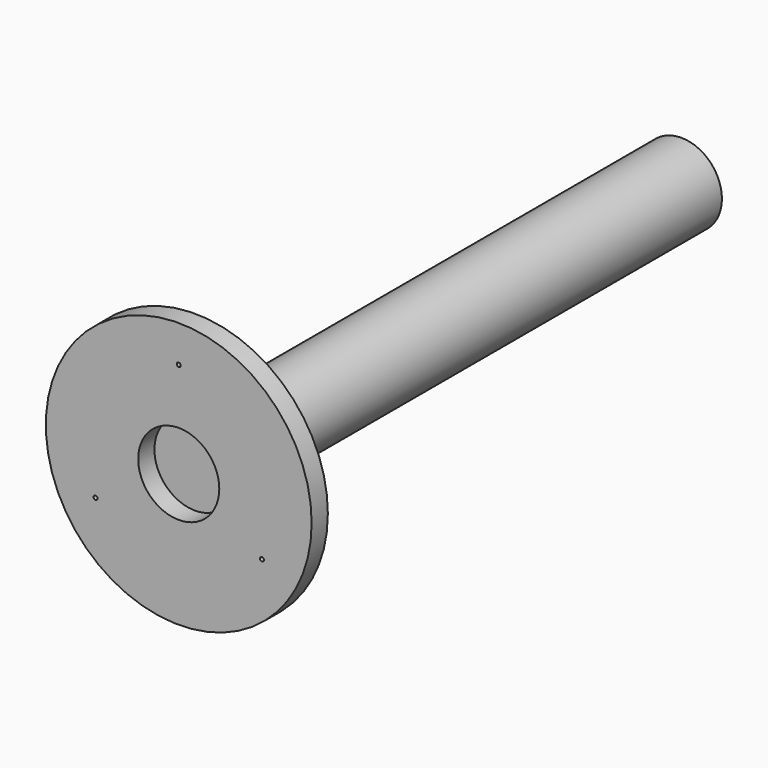
from build123d import *

# Parameters (mm, degrees)
F0_R     = 50.8
F1_DEPTH = 762
F2_R     = 166.56616515
F2_R_2   = 50.8
F3_DEPTH = 25.4
F5_D     = 5


with BuildPart() as f1:
    # F0 (on Front) → F1 (new body)
    with BuildSketch(Plane.XZ):
        Circle(F0_R)
    extrude(amount=F1_DEPTH)


with BuildPart() as f3:
    # F2 (on face) → F3 (new body)
    with BuildSketch(Plane.XZ.offset(762)):
        Circle(F2_R)
        Circle(F2_R_2, mode=Mode.SUBTRACT)
    extrude(amount=F3_DEPTH)

    # F5 (through all)
    with Locations(Plane.XZ.offset(787.4)):
        with Locations((0, 120.4084604979), (104.2767856217, -60.2042302489), (-104.2767856217, -60.2042302489)):
            Hole(F5_D / 2)


solid = Compound([f1.part, f3.part])
